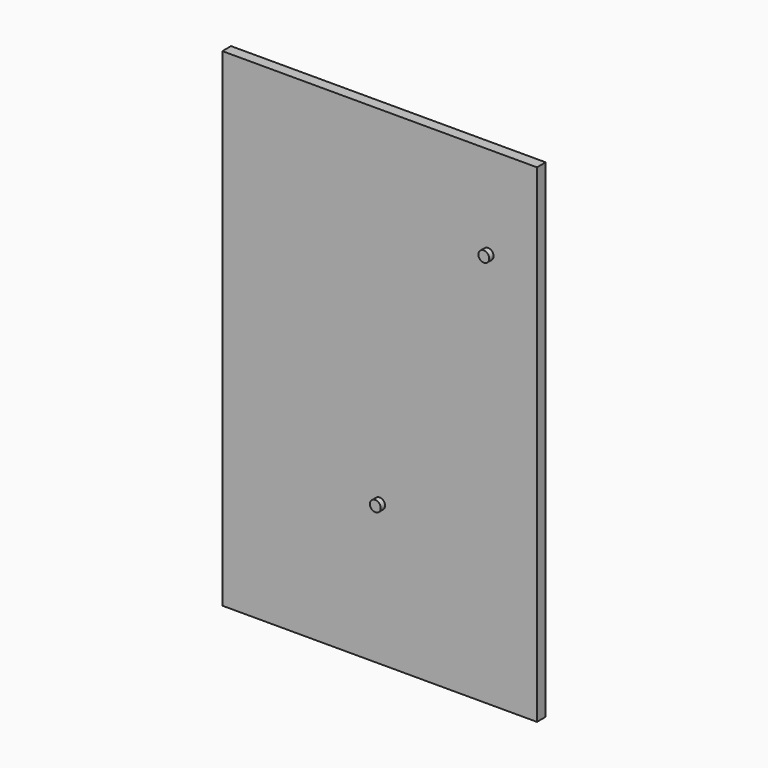
from build123d import *

# Parameters (mm, degrees)
F0_W     = 290
F0_H     = 450
F0_R     = 5
F1_DEPTH = 10
F2_DEPTH = 15
F3_DEPTH = 15


with BuildPart() as f1:
    # F0 (on Front) → F1 (new body)
    with BuildSketch(Plane.XZ):
        Rectangle(F0_W, F0_H)
        with Locations((0, -95)):
            Circle(F0_R, mode=Mode.SUBTRACT)
        with Locations((100, 140)):
            Circle(F0_R, mode=Mode.SUBTRACT)
    extrude(amount=F1_DEPTH)

    # F0 (on Front) → F2 (join)
    with BuildSketch(Plane.XZ):
        with Locations((100, 140)):
            Circle(F0_R)
    extrude(amount=F2_DEPTH)


with BuildPart() as f3:
    # F0 (on Front) → F3 (new body)
    with BuildSketch(Plane.XZ):
        with Locations((0, -95)):
            Circle(F0_R)
    extrude(amount=F3_DEPTH)


solid = Compound([f1.part, f3.part])
